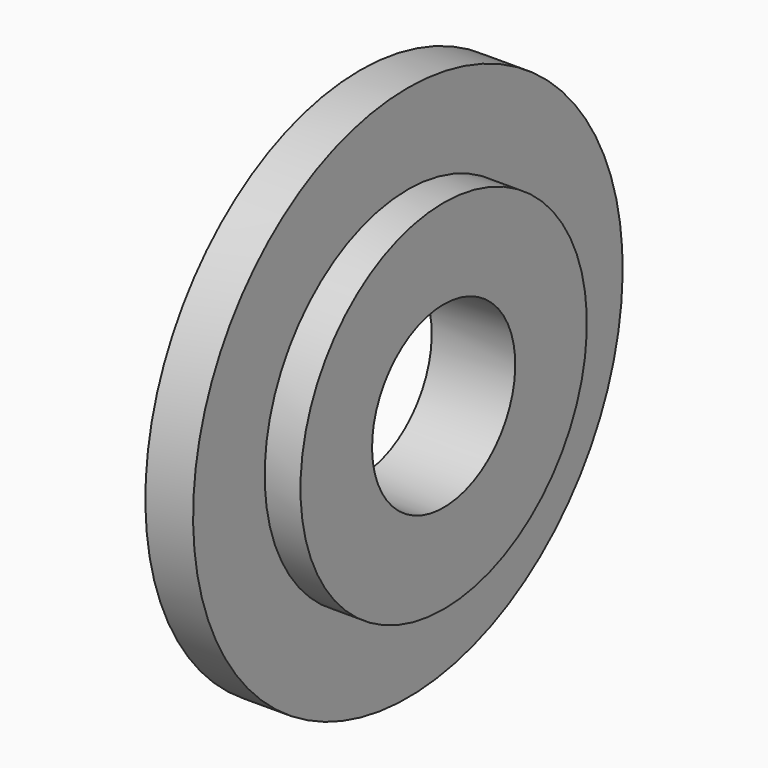
from build123d import *

# Parameters (mm, degrees)
F0_W = 5.999999
F0_H = 15


with BuildPart() as f1:
    # F0 (on Front) → F1 (revolve)
    with BuildSketch(Plane.XZ):
        Polygon((8, 45), (0, 45), (0, 15), (8, 15), (8, 30), align=None)
        with Locations((10.999999, 22.5)):
            Rectangle(F0_W, F0_H)
    revolve(axis=Axis((20.377468, 0, 0), (1, 0, 0)))


solid = f1.part
